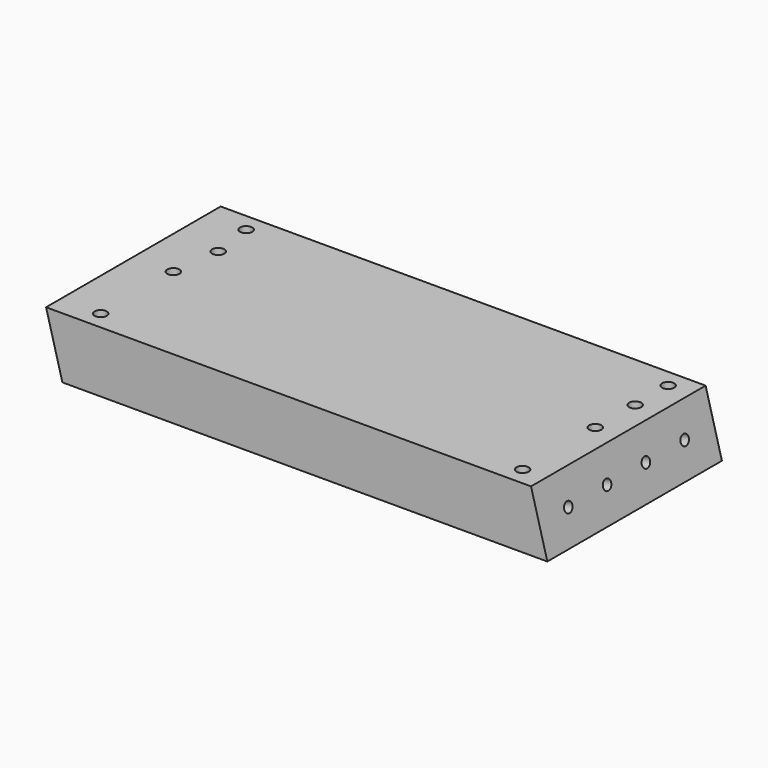
from build123d import *

# Parameters (mm, degrees)
F1_DEPTH  = 90
F3_DEPTH  = 17
F5_D      = 5.5
F5_DEPTH  = 17.4
F5_TIP    = 1.6523667023
F7_D      = 5
F9_D      = 5
F9_DEPTH  = 10
F9_TIP    = 1.5021515476
F11_D     = 4.2
F11_DEPTH = 17.4
F11_TIP   = 1.2618073
F13_D     = 4.2
F13_DEPTH = 13.4
F13_TIP   = 1.2618073
F15_D     = 5
F15_DEPTH = 18
F15_TIP   = 1.5021515476


with BuildPart() as f1:
    # F0 (on Front) → F1 (new body)
    with BuildSketch(Plane.XZ):
        Polygon((200, 0), (0, 0), (6.72552473, -25.1), (206.72552473, -25.1), align=None)
    extrude(amount=F1_DEPTH)

    # F2 (on face) → F3 (cut)
    with BuildSketch(Plane(origin=(0, 0, -25.1), x_dir=(1, 0, 0), z_dir=(0, 0, -1))):
        with BuildLine():
            Line((158.72552473, 85), (106.72552473, 85))
            Line((106.72552473, 85), (34.72552473, 85))
            ThreePointArc((34.72552473, 85), (29.0686704805, 82.6568542495), (26.72552473, 77))
            Line((26.72552473, 77), (26.72552473, 13))
            ThreePointArc((26.72552473, 13), (29.0686704805, 7.3431457505), (34.72552473, 5))
            Line((34.72552473, 5), (158.72552473, 5))
            ThreePointArc((158.72552473, 5), (164.3823789795, 7.3431457505), (166.72552473, 13))
            Line((166.72552473, 13), (166.72552473, 77))
            ThreePointArc((166.72552473, 77), (164.3823789795, 82.6568542495), (158.72552473, 85))
        make_face()
    extrude(amount=-F3_DEPTH, mode=Mode.SUBTRACT)

    # F5
    with Locations(Plane(origin=(0, 0, 0), x_dir=(0, -1, 0), z_dir=(-0.9659258263, 0, -0.2588190451))):
        with Locations((15, -12.9927160641), (35, -12.9927160641), (55, -12.9927160641), (75, -12.9927160641)):
            Hole(F5_D / 2, depth=F5_DEPTH)
            with Locations((0, 0, -(F5_DEPTH + F5_TIP / 2))):  # 118° drill point
                Cone(0, F5_D / 2, F5_TIP, mode=Mode.SUBTRACT)

    # F7 (through all)
    with Locations(Plane.XY):
        with Locations((16.5, -7.5), (16.5, -45), (16.5, -82.5), (190.5, -82.5), (190.5, -45), (190.5, -7.5)):
            Hole(F7_D / 2)

    # F9
    with Locations(Plane.XY):
        with Locations((19, -25), (190.7, -24.7)):
            Hole(F9_D / 2, depth=F9_DEPTH)
            with Locations((0, 0, -(F9_DEPTH + F9_TIP / 2))):  # 118° drill point
                Cone(0, F9_D / 2, F9_TIP, mode=Mode.SUBTRACT)

    # F11
    with Locations(Plane(origin=(186.6025403784, 0, 50), x_dir=(0, 1, 0), z_dir=(0.9659258263, 0, 0.2588190451))):
        with Locations((-15, -64.7565250847), (-35, -64.7565250847), (-55, -64.7565250847), (-75, -64.7565250847)):
            Hole(F11_D / 2, depth=F11_DEPTH)
            with Locations((0, 0, -(F11_DEPTH + F11_TIP / 2))):  # 118° drill point
                Cone(0, F11_D / 2, F11_TIP, mode=Mode.SUBTRACT)

    # F13
    with Locations(Plane(origin=(0, 0, -25.1), x_dir=(1, 0, 0), z_dir=(0, 0, -1))):
        with Locations((199.72552473, 65)):
            Hole(F13_D / 2, depth=F13_DEPTH)
            with Locations((0, 0, -(F13_DEPTH + F13_TIP / 2))):  # 118° drill point
                Cone(0, F13_D / 2, F13_TIP, mode=Mode.SUBTRACT)

    # F15
    with Locations(Plane(origin=(0, 0, -25.1), x_dir=(1, 0, 0), z_dir=(0, 0, -1))):
        with Locations((174.72552473, 67), (174.72552473, 23)):
            Hole(F15_D / 2, depth=F15_DEPTH)
            with Locations((0, 0, -(F15_DEPTH + F15_TIP / 2))):  # 118° drill point
                Cone(0, F15_D / 2, F15_TIP, mode=Mode.SUBTRACT)


solid = f1.part
